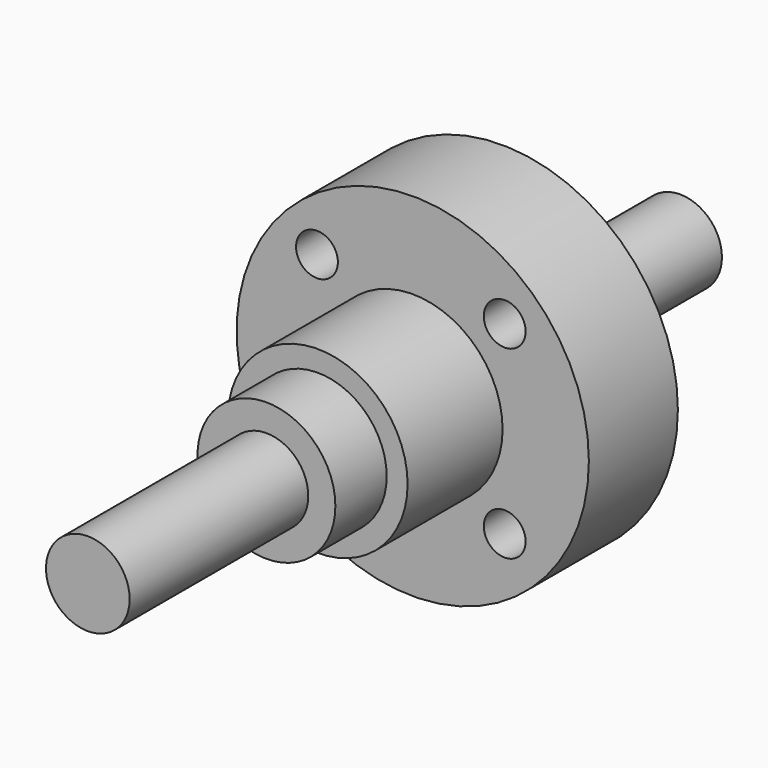
from build123d import *

# Parameters (mm, degrees)
F0_R          = 2.9972
F5_DEPTH      = 37.084
F5_DEPTH_BACK = 15.9766
F1_R          = 4.9403
F6_DEPTH      = 21.082
F2_R          = 6.4389
F7_DEPTH      = 16.4846
F3_R          = 12.6238
F8_DEPTH      = 7.9756
F9_D          = 2.9972


with BuildPart() as f5:
    # F0 (on Front) → F5 (new body, two sides)
    with BuildSketch(Plane.XZ) as f5_sk:
        Circle(F0_R)
    extrude(amount=F5_DEPTH)
    extrude(f5_sk.sketch, amount=-F5_DEPTH_BACK)

    # F1 (on Front) → F6 (join)
    with BuildSketch(Plane.XZ):
        Circle(F1_R)
    extrude(amount=F6_DEPTH)

    # F2 (on Front) → F7 (join)
    with BuildSketch(Plane.XZ):
        Circle(F2_R)
    extrude(amount=F7_DEPTH)

    # F3 (on Front) → F8 (join)
    with BuildSketch(Plane.XZ):
        Circle(F3_R)
    extrude(amount=F8_DEPTH)

    # F9 (through all)
    with Locations(Plane(origin=(0, 0, 0), x_dir=(1, 0, 0), z_dir=(0, 1, 0))):
        with Locations((-6.8628041832, -6.7065595315), (6.5900925825, -6.7065595315), (6.5900925825, 6.5454167448), (-6.8628041832, 6.5454167448)):
            Hole(F9_D / 2)


solid = f5.part
